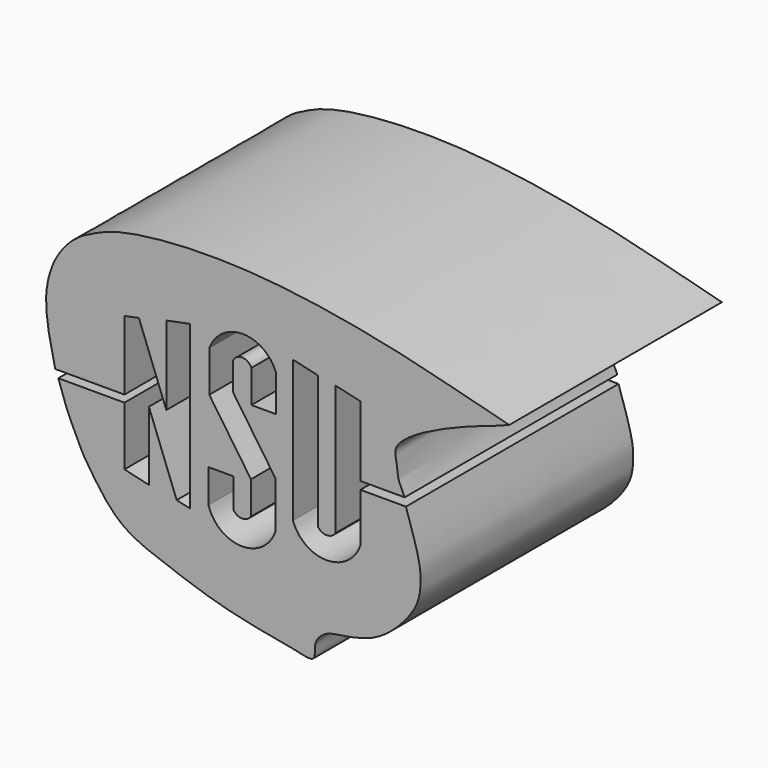
from build123d import *

# Parameters (mm, degrees)
F1_DEPTH = 50


with BuildPart() as f1:
    # F0 (on Front) → F1 (new body)
    with BuildSketch(Plane.XZ):
        with BuildLine():
            add(Edge.make_bspline(
                [(-37.7162061632, 10.8718592674), (-38.0137925928, 12.1718101066), (-38.5932806053, 14.7031954565), (-39.2151447113, 18.0535253196), (-39.5737756392, 22.2902382556), (-39.2482214069, 24.0848133925), (-39.1050204635, 24.8741898686)],
                knots=[0, 0, 0, 0, 0.2633681623, 0.5128550154, 0.7857204286, 1, 1, 1, 1], degree=3))
            Line((-37.7162061632, 10.8718592674), (-24.692427367, 10.8718592674))
            Line((-24.692427367, 10.8718592674), (-24.692427367, 23.9042103876))
            Line((-24.692427367, 23.9042103876), (-21.9665206969, 24.4408212602))
            Line((-21.9665206969, 24.4408212602), (-16.8175846338, 10.8718592674))
            Line((-16.8175846338, 10.8718592674), (-16.8175846338, 25.7129110396))
            Line((-16.8175846338, 25.7129110396), (-12.3989448364, 26.5827464538))
            Line((-12.3989448364, 26.5827464538), (-12.3989448364, -3.9767332708))
            Line((-12.3989448364, -3.9767332708), (-14.8713132367, -3.4016475547))
            Line((-14.8713132367, -3.4016475547), (-20.0936662698, 10.3607897628))
            Line((-20.0936662698, 10.3607897628), (-20.0936662698, -2.5866411161))
            Line((-20.0936662698, -2.5866411161), (-24.692427367, -1.5169454273))
            Line((-24.692427367, -1.5169454273), (-24.692427367, 9.5365801826))
            Line((-24.692427367, 9.5365801826), (-37.1311791241, 9.5365801826))
            add(Edge.make_bspline(
                [(-37.1311791241, 9.5365801826), (-36.6443772184, 8.1203147102), (-35.8128377427, 5.7010952401), (-35.1229162991, 3.9140028803), (-33.4049634325, 0.4825636444), (-32.6630781804, -1.3346058437), (-30.9651065329, -3.9427016689), (-29.509727436, -6.00741778), (-27.5501513285, -8.661576152), (-24.5989748796, -11.4109926011), (-22.0151064088, -12.6163530494), (-20.6999834627, -13.2298506796)],
                knots=[0, 0, 0, 0, 0.1255236338, 0.2144154644, 0.3338929331, 0.4247103788, 0.5323068124, 0.6328042387, 0.7451740805, 0.8703001264, 1, 1, 1, 1], degree=3))
            add(Edge.make_bspline(
                [(-20.6999834627, -13.2298506796), (-16.5301085551, -14.8002632919), (-8.7116046094, -17.7447826065), (1.2763262747, -19.9299698522), (6.8147770756, -20.7539027843), (11.6490305393, -22.1255664797), (10.6555075071, -18.4772007098), (13.1581887862, -16.086599108), (16.052802937, -15.8158127323), (21.8291561008, -14.7409885195), (25.9947312111, -11.7480172987), (29.1240435942, -8.2906086726), (30.8704592823, -5.0116798542), (31.0342548039, -1.7846543849), (30.9307681785, 1.3358652121), (29.2884294917, 6.3647014715), (28.2525438815, 9.5365801826)],
                knots=[0, 0, 0, 0, 0.1156147255, 0.2167772912, 0.2950938275, 0.3550195696, 0.4055888786, 0.4612512734, 0.5157139519, 0.5921829643, 0.6650277241, 0.7335909835, 0.7945111507, 0.8499845334, 0.9053795272, 1, 1, 1, 1], degree=3))
            Line((28.2525438815, 9.5365801826), (19.6858402342, 9.5365801826))
            Line((19.6858402342, 9.5365801826), (19.6858402342, 0.3066004333))
            ThreePointArc((19.6858402342, 0.3066004333), (13.3464820683, -4.1877158784), (7.0071239024, 0.3066004333))
            Line((7.0071239024, 0.3066004333), (7.0071239024, 1.9209996099))
            Line((7.0071239024, 1.9209996099), (7.0071239024, 26.9635599107))
            Line((7.0071239024, 26.9635599107), (11.6702681407, 25.8938632905))
            Line((11.6702681407, 25.8938632905), (11.6702681407, 0.8817345434))
            ThreePointArc((11.6702681407, 0.8817345434), (13.3584048599, -0.0419122917), (15.0465415791, 0.8817345434))
            Line((15.0465415791, 0.8817345434), (15.0465415791, 25.2709649503))
            Line((15.0465415791, 25.2709649503), (19.7096858174, 24.2012683302))
            Line((19.7096858174, 24.2012683302), (19.7096858174, 10.9957624227))
            Line((19.7096858174, 10.9957624227), (28.0085615814, 10.9957624227))
            add(Edge.make_bspline(
                [(28.0085615814, 10.9957624227), (27.5990196151, 11.9018441718), (26.6245147306, 13.5645543288), (26.6498949617, 16.2076869277), (25.4504108103, 19.5450855972), (34.9802563239, 24.9629685602), (41.6594700108, 27.2332369803), (45.1526753604, 28.420900926)],
                knots=[0, 0, 0, 0, 0.1486254949, 0.288932671, 0.4318181156, 0.703383398, 1, 1, 1, 1], degree=3))
            add(Edge.make_bspline(
                [(45.1526753604, 28.420900926), (45.9953943888, 28.7416589757), (46.8432460567, 29.062839935), (47.6859650851, 29.3835979847)],
                knots=[0, 0, 0, 0, 2.7100447332, 2.7100447332, 2.7100447332, 2.7100447332], degree=3))
            add(Edge.make_bspline(
                [(47.6859650851, 29.3835979847), (45.1073037008, 30.0439684401), (39.3418110148, 31.5177252321), (27.2126313622, 34.7029571715), (13.1216955207, 37.3749708143), (3.4336924436, 38.5546282012), (-4.1532333455, 39.1010302943), (-13.2728239958, 39.1506385664), (-21.9850756514, 38.3252473292), (-27.3455135239, 37.1141395602), (-30.6322151669, 35.638712881), (-33.3353144975, 34.2583399157), (-35.8251010864, 32.0303153592), (-37.5549477975, 29.4076102427), (-38.4246526946, 27.5305795614), (-38.9679409564, 25.6325099617), (-39.1050204635, 24.8741898686)],
                knots=[0, 0, 0, 0, 0.0833811733, 0.1860003185, 0.2961218678, 0.3855956178, 0.4642235766, 0.5515208268, 0.6373476746, 0.7043105994, 0.7580079326, 0.8077548361, 0.8604210307, 0.9108905578, 0.9530090083, 1, 1, 1, 1], degree=3))
        make_face()
        with BuildLine():
            ThreePointArc((3.6746582482, -2.6572514325), (-2.7355141183, -7.0583728261), (-8.8756987825, -2.2878056084))
            Line((-8.8756987825, -2.2878056084), (-8.8756987825, 4.004645627))
            Line((-8.8756987825, 4.004645627), (-4.1796290316, 4.004645627))
            Line((-4.1796290316, 4.004645627), (-4.1796290316, -1.5834666556))
            ThreePointArc((-4.1796290316, -1.5834666556), (-2.5416316057, -2.4515089383), (-0.9036341798, -1.5834666556))
            Line((-0.9036341798, -1.5834666556), (-0.9036341798, -0.7915620226))
            Line((-0.9036341798, -0.7915620226), (-0.9036341798, 4.5887495607))
            Line((-0.9036341798, 4.5887495607), (-8.7350774556, 16.0359088331))
            Line((-8.7350774556, 16.0359088331), (-8.7350774556, 23.7385202199))
            ThreePointArc((-8.7350774556, 23.7385202199), (-2.4544686312, 28.1597379043), (3.8261401933, 23.7385202199))
            Line((3.8261401933, 23.7385202199), (3.8261401933, 16.9026460499))
            Line((3.8261401933, 16.9026460499), (-0.8087534225, 16.9026460499))
            Line((-0.8087534225, 16.9026460499), (-0.8087534225, 23.0661313981))
            ThreePointArc((-0.8087534225, 23.0661313981), (-2.5533767766, 24.2122782413), (-4.2980001308, 23.0661313981))
            Line((-4.2980001308, 23.0661313981), (-4.2980001308, 17.9428189131))
            Line((-4.2980001308, 17.9428189131), (3.7426783238, 6.1898222193))
            Line((3.7426783238, 6.1898222193), (3.6746582482, -2.6572514325))
        make_face(mode=Mode.SUBTRACT)
    extrude(amount=F1_DEPTH)


solid = f1.part
